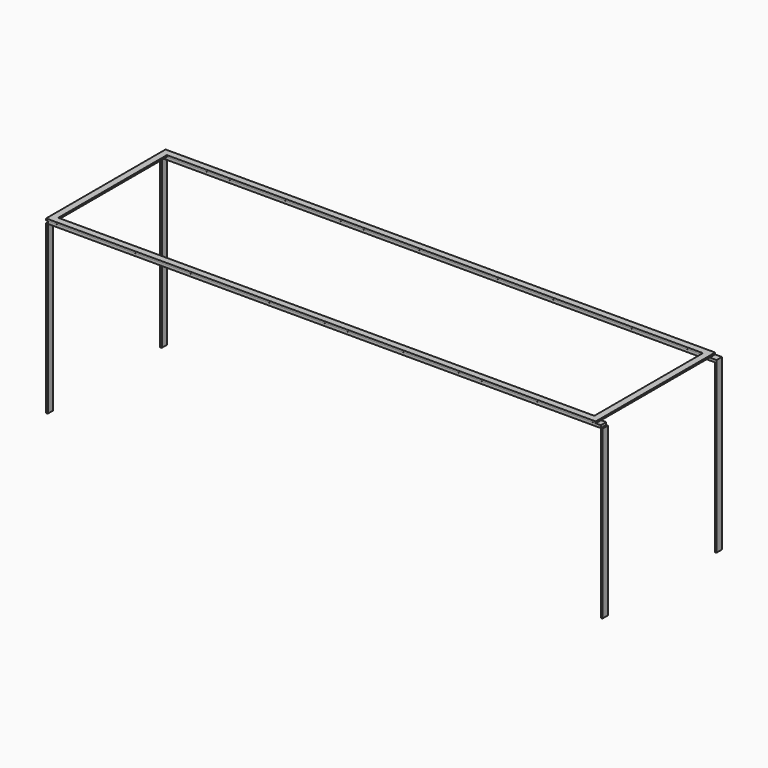
from build123d import *

# Parameters (mm, degrees)
F0_W     = 2070.1
F0_H     = 9.525
F1_DEPTH = 25.4
F0_W_2   = 6.35
F0_H_2   = 625.475
F3_W     = 2006.6
F3_H     = 25.3777652979
F3_W_2   = 25.4
F3_H_2   = 25.4
F3_H_3   = 508.0222347021
F4_DEPTH = 6.35
F6_W     = 6.35
F6_H     = 625.475
F6_H_2   = 9.525
F6_W_2   = 2070.1
F7_DEPTH = 25.4


with BuildPart() as f1:
    # F0 (on Front) → F1 (new body)
    with BuildSketch(Plane.XZ):
        with Locations((1041.4, 630.2375)):
            Rectangle(F0_W, F0_H)
    extrude(amount=F1_DEPTH)

    # F3 (on offset) → F4 (join)
    with BuildSketch(Plane.XY.offset(635)):
        Polygon((0, 508.0222347021), (0, -25.3777652979), (25.4, -25.3777652979), (25.4, 0), (25.4, 508.0222347021), align=None)
        with Locations((1028.7, -12.6888826489)):
            Rectangle(F3_W, F3_H)
        with Locations((12.7, 520.7222347021)):
            Rectangle(F3_W_2, F3_H_2)
        with Locations((2044.7, -12.6888826489)):
            Rectangle(F3_W_2, F3_H)
        with Locations((1028.7, 520.7222347021)):
            Rectangle(F3_W, F3_H_2)
        with Locations((2044.7, 254.0111173511)):
            Rectangle(F3_W_2, F3_H_3)
        with Locations((2044.7, 520.7222347021)):
            Rectangle(F3_W_2, F3_H_2)
    extrude(amount=F4_DEPTH)

    # F6 (on offset) → F7 (join)
    with BuildSketch(Plane.XZ.offset(-533.4)):
        with Locations((3.175, 312.7375)):
            Rectangle(F6_W, F6_H)
        with Locations((3.175, 630.2375)):
            Rectangle(F6_W, F6_H_2)
        with Locations((1041.4, 630.2375)):
            Rectangle(F6_W_2, F6_H_2)
        with Locations((2079.625, 630.2375)):
            Rectangle(F6_W, F6_H_2)
        with Locations((2079.625, 312.7375)):
            Rectangle(F6_W, F6_H)
    extrude(amount=F7_DEPTH)


with BuildPart() as f1b:
    # F0 (on Front) → F1, piece 2 (new body)
    with BuildSketch(Plane.XZ):
        with Locations((3.175, 312.7375)):
            Rectangle(F0_W_2, F0_H_2)
    extrude(amount=F1_DEPTH)


with BuildPart() as f1c:
    # F0 (on Front) → F1, piece 3 (new body)
    with BuildSketch(Plane.XZ):
        with Locations((2079.625, 312.7375)):
            Rectangle(F0_W_2, F0_H_2)
    extrude(amount=F1_DEPTH)


solid = Compound([f1.part, f1b.part, f1c.part])
